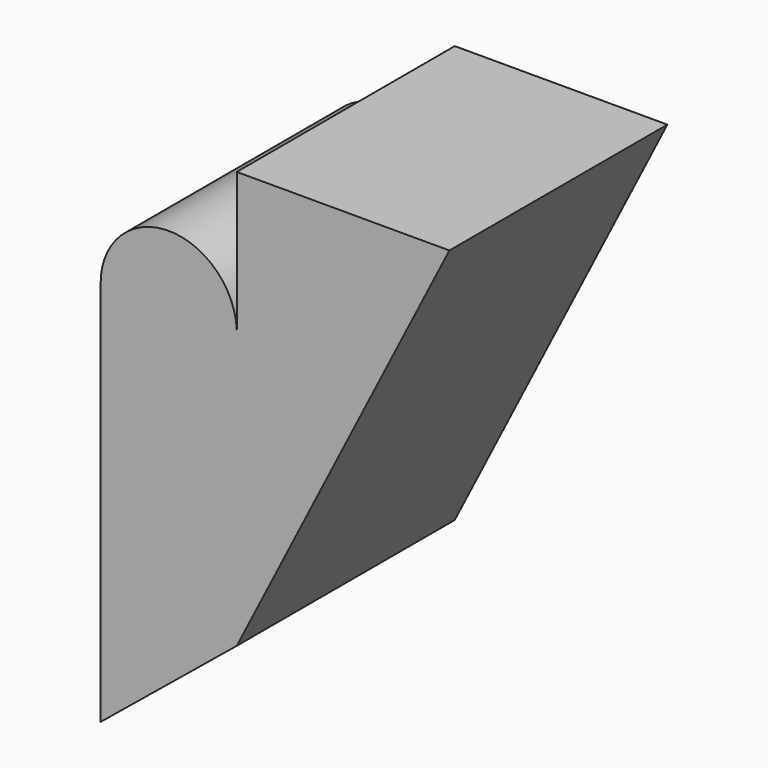
from build123d import *

# Parameters (mm, degrees)
F1_DEPTH = 75


with BuildPart() as f1:
    # F0 (on Front) → F1 (new body, symmetric)
    with BuildSketch(Plane.XZ):
        with BuildLine():
            Line((-74.9166, 74.73357), (-74.937776, 74.73357))
            Line((-74.937776, 74.73357), (-74.937776, -95.969349))
            Line((-74.937776, -95.969349), (-74.937776, -136.472538))
            Line((-74.937776, -136.472538), (0, -75.234942))
            Line((0, -75.234942), (117.025863, 154.419199))
            Line((117.025863, 154.419199), (0, 154.419199))
            Line((0, 154.419199), (0, 78.087347))
            ThreePointArc((0, 78.087347), (-39.125076, 113.642863), (-74.9166, 74.73357))
        make_face()
    extrude(amount=F1_DEPTH, both=True)


solid = f1.part
